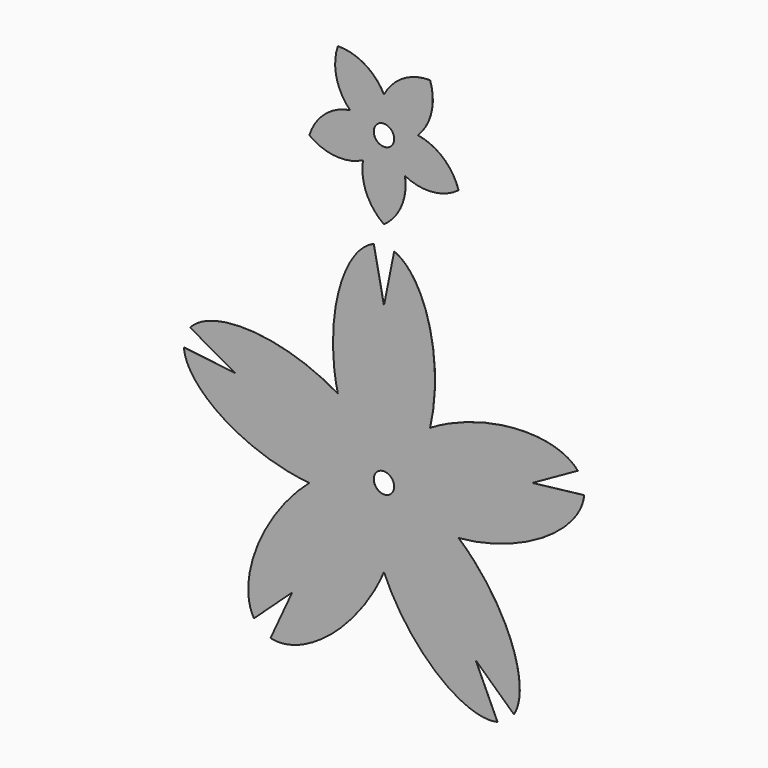
from build123d import *

# Parameters (mm, degrees)
F1_R     = 1
F3_DEPTH = 0.01
F2_R     = 1
F4_DEPTH = 0.01


with BuildPart() as f3:
    # F1 (on Front) → F3 (new body)
    with BuildSketch(Plane.XZ):
        with BuildLine():
            Line((1, 20.2979589711), (0, 15.2979589711))
            Line((0, 15.2979589711), (-1, 20.2979589711))
            add(Edge.make_bspline(
                [(-1, 20.2979589711), (-7.2486124182, 17.7469736336), (-4.5187965545, 6.2195898799)],
                knots=[0.2013579208, 0.2013579208, 0.2013579208, 2.013120389, 2.013120389, 2.013120389], degree=2, weights=[1, 0.6169923155, 1]))
            add(Edge.make_bspline(
                [(-4.5187965545, 6.2195898799), (-14.6384304959, 12.377956526), (-18.9954891526, 7.2234707895)],
                knots=[4.2700649182, 4.2700649182, 4.2700649182, 6.0818273864, 6.0818273864, 6.0818273864], degree=2, weights=[1, 0.6169923155, 1]))
            Line((-18.9954891526, 7.2234707895), (-14.5492235655, 4.7273293013))
            Line((-14.5492235655, 4.7273293013), (-19.6135231414, 5.3213577569))
            add(Edge.make_bspline(
                [(-19.6135231414, 5.3213577569), (-19.1183193416, -1.4097236229), (-7.3115664134, -2.375671938)],
                knots=[0.2013579208, 0.2013579208, 0.2013579208, 2.013120389, 2.013120389, 2.013120389], degree=2, weights=[1, 0.6169923155, 1]))
            add(Edge.make_bspline(
                [(-7.3115664134, -2.375671938), (-16.2956600066, -10.0969757893), (-12.7398579292, -15.8336085065)],
                knots=[4.2700649182, 4.2700649182, 4.2700649182, 6.0818273864, 6.0818273864, 6.0818273864], degree=2, weights=[1, 0.6169923155, 1]))
            Line((-12.7398579292, -15.8336085065), (-8.9919146734, -12.3763087869))
            Line((-8.9919146734, -12.3763087869), (-11.1218239405, -17.0091790111))
            add(Edge.make_bspline(
                [(-11.1218239405, -17.0091790111), (-4.5671587427, -18.6182307473), (0, -7.6878358837)],
                knots=[0.2013579208, 0.2013579208, 0.2013579208, 2.013120389, 2.013120389, 2.013120389], degree=2, weights=[1, 0.6169923155, 1]))
            add(Edge.make_bspline(
                [(0, -7.6878358837), (4.5671587427, -18.6182307473), (11.1218239405, -17.0091790111)],
                knots=[4.2700649182, 4.2700649182, 4.2700649182, 6.0818273864, 6.0818273864, 6.0818273864], degree=2, weights=[1, 0.6169923155, 1]))
            Line((11.1218239405, -17.0091790111), (8.9919146734, -12.3763087869))
            Line((8.9919146734, -12.3763087869), (12.7398579292, -15.8336085065))
            add(Edge.make_bspline(
                [(12.7398579292, -15.8336085065), (16.2956600066, -10.0969757893), (7.3115664134, -2.375671938)],
                knots=[0.2013579208, 0.2013579208, 0.2013579208, 2.013120389, 2.013120389, 2.013120389], degree=2, weights=[1, 0.6169923155, 1]))
            add(Edge.make_bspline(
                [(7.3115664134, -2.375671938), (19.1183193416, -1.4097236229), (19.6135231414, 5.3213577569)],
                knots=[4.2700649182, 4.2700649182, 4.2700649182, 6.0818273864, 6.0818273864, 6.0818273864], degree=2, weights=[1, 0.6169923155, 1]))
            Line((19.6135231414, 5.3213577569), (14.5492235655, 4.7273293013))
            Line((14.5492235655, 4.7273293013), (18.9954891526, 7.2234707895))
            add(Edge.make_bspline(
                [(18.9954891526, 7.2234707895), (14.6384304959, 12.377956526), (4.5187965545, 6.2195898799)],
                knots=[0.2013579208, 0.2013579208, 0.2013579208, 2.013120389, 2.013120389, 2.013120389], degree=2, weights=[1, 0.6169923155, 1]))
            add(Edge.make_bspline(
                [(4.5187965545, 6.2195898799), (7.2486124182, 17.7469736336), (1, 20.2979589711)],
                knots=[4.2700649182, 4.2700649182, 4.2700649182, 6.0818273864, 6.0818273864, 6.0818273864], degree=2, weights=[1, 0.6169923155, 1]))
        make_face()
        Circle(F1_R, mode=Mode.SUBTRACT)
    extrude(amount=F3_DEPTH)


with BuildPart() as f4:
    # F2 (on Front) → F4 (new body)
    with BuildSketch(Plane.XZ):
        with BuildLine():
            ThreePointArc((4.5187965545, 6.2195898799), (1.87166117, 5.5040483685), (0, 3.5))
            ThreePointArc((0, 3.5), (-1.87166117, 5.5040483685), (-4.5187965545, 6.2195898799))
            ThreePointArc((-4.5187965545, 6.2195898799), (-4.6562859576, 3.4809000357), (-3.328697807, 1.0815594803))
            ThreePointArc((-3.328697807, 1.0815594803), (-5.8130361761, -0.0792110683), (-7.3115664134, -2.375671938))
            ThreePointArc((-7.3115664134, -2.375671938), (-4.7494041531, -3.3527338349), (-2.057248383, -2.8315594803))
            ThreePointArc((-2.057248383, -2.8315594803), (-1.7209927646, -5.553003501), (0, -7.6878358837))
            ThreePointArc((0, -7.6878358837), (1.7209927646, -5.553003501), (2.057248383, -2.8315594803))
            ThreePointArc((2.057248383, -2.8315594803), (4.7494041531, -3.3527338349), (7.3115664134, -2.375671938))
            ThreePointArc((7.3115664134, -2.375671938), (5.8130361761, -0.0792110683), (3.328697807, 1.0815594803))
            ThreePointArc((3.328697807, 1.0815594803), (4.6562859576, 3.4809000357), (4.5187965545, 6.2195898799))
        make_face()
        Circle(F2_R, mode=Mode.SUBTRACT)
    extrude(amount=F4_DEPTH)


with BuildPart() as f4_1:
    # F5: moved
    add(f4.part.moved(Location((0, 0, 30))))


solid = Compound([f3.part, f4_1.part])
